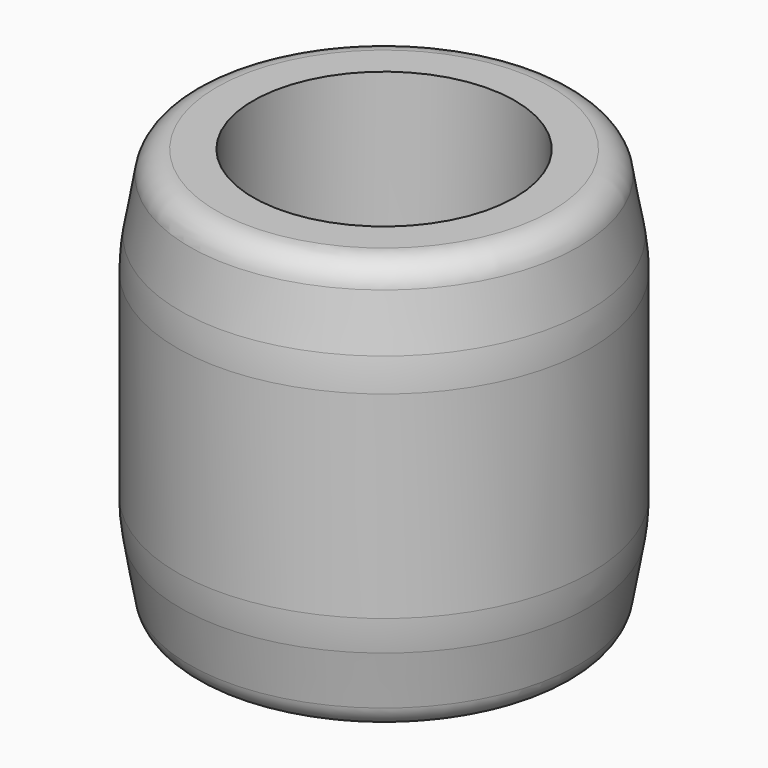
from build123d import *

# Parameters (mm, degrees)
F0_R     = 22.5
F0_R_2   = 14.25
F1_DEPTH = 45
F2_SIZE2 = 1.7632698071
F2_SIZE  = 10
F3_R     = 20
F4_R     = 3


with BuildPart() as f1:
    # F0 (on Top) → F1 (new body)
    with BuildSketch(Plane.XY):
        Circle(F0_R)
        Circle(F0_R_2, mode=Mode.SUBTRACT)
    extrude(amount=F1_DEPTH)

    # F2
    f2_edges = [f1.edges().sort_by_distance(p)[0] for p in [
        (-22.5, 0, 0),
        (-22.5, 0, 45),
    ]]
    f2_side = f1.faces().sort_by_distance((-22.5, 0, 22.5))[0]
    chamfer(f2_edges, length=F2_SIZE, length2=F2_SIZE2, reference=f2_side)

    # F3
    f3_edges = [f1.edges().sort_by_distance(p)[0] for p in [
        (22.5, 0, 22.5),
        (-22.5, 0, 10),
        (-22.5, 0, 35),
    ]]
    fillet(f3_edges, radius=F3_R)

    # F4
    f4_edges = [f1.edges().sort_by_distance(p)[0] for p in [
        (-20.73673, 0, 45),
        (-20.73673, 0, 0),
    ]]
    fillet(f4_edges, radius=F4_R)


solid = f1.part
